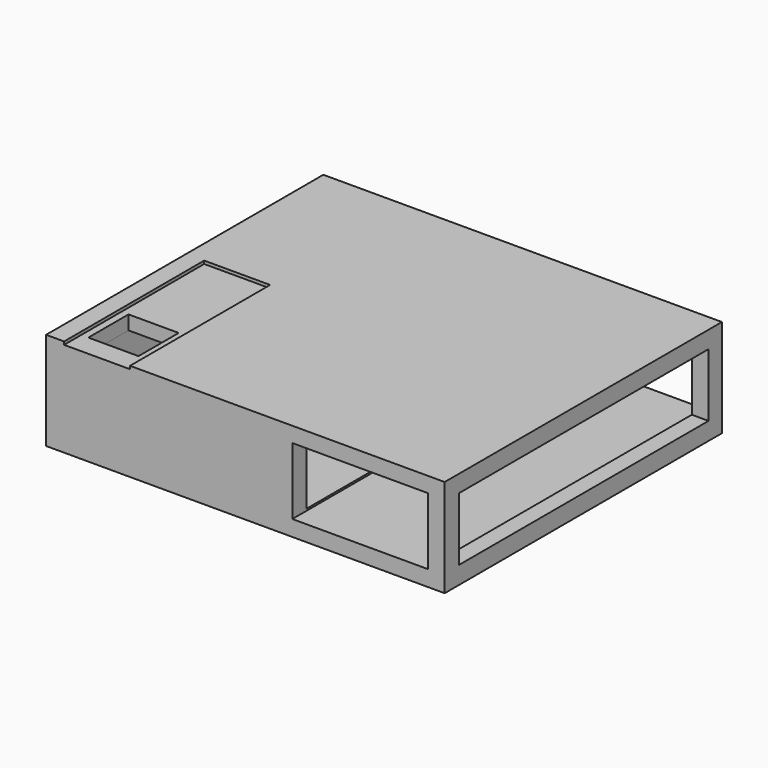
from build123d import *

# Parameters (mm, degrees)
F0_W     = 63.503295
F0_H     = 55.21382
F1_DEPTH = 15.6
F2_W     = 21.611847
F2_H     = 10.657895
F3_DEPTH = 60.6
F4_W     = 49.736842
F4_H     = 10.06579
F5_DEPTH = 59.6
F6_W     = 8
F6_H     = 8
F7_DEPTH = 6.1
F8_W     = 10.503809
F8_H     = 0.480202
F9_DEPTH = 27.9


with BuildPart() as f1:
    # F0 (on Top) → F1 (new body)
    with BuildSketch(Plane.XY):
        with Locations((31.751647, 27.60691)):
            Rectangle(F0_W, F0_H)
    extrude(amount=F1_DEPTH)

    # F2 (on face) → F3 (cut)
    with BuildSketch(Plane.XZ):
        with Locations((50.032899, 7.845395)):
            Rectangle(F2_W, F2_H)
    extrude(amount=-F3_DEPTH, mode=Mode.SUBTRACT)

    # F4 (on face) → F5 (cut)
    with BuildSketch(Plane.YZ.offset(63.503295)):
        with Locations((27.680923, 7.845395)):
            Rectangle(F4_W, F4_H)
    extrude(amount=-F5_DEPTH, mode=Mode.SUBTRACT)

    # F6 (on face) → F7 (cut)
    with BuildSketch(Plane.XY.offset(15.6)):
        with Locations((8, 7.41359)):
            Rectangle(F6_W, F6_H)
    extrude(amount=-F7_DEPTH, mode=Mode.SUBTRACT)

    # F8 (on face) → F9 (cut)
    with BuildSketch(Plane.XZ):
        with Locations((8.121265, 15.359899)):
            Rectangle(F8_W, F8_H)
    extrude(amount=-F9_DEPTH, mode=Mode.SUBTRACT)


solid = f1.part
